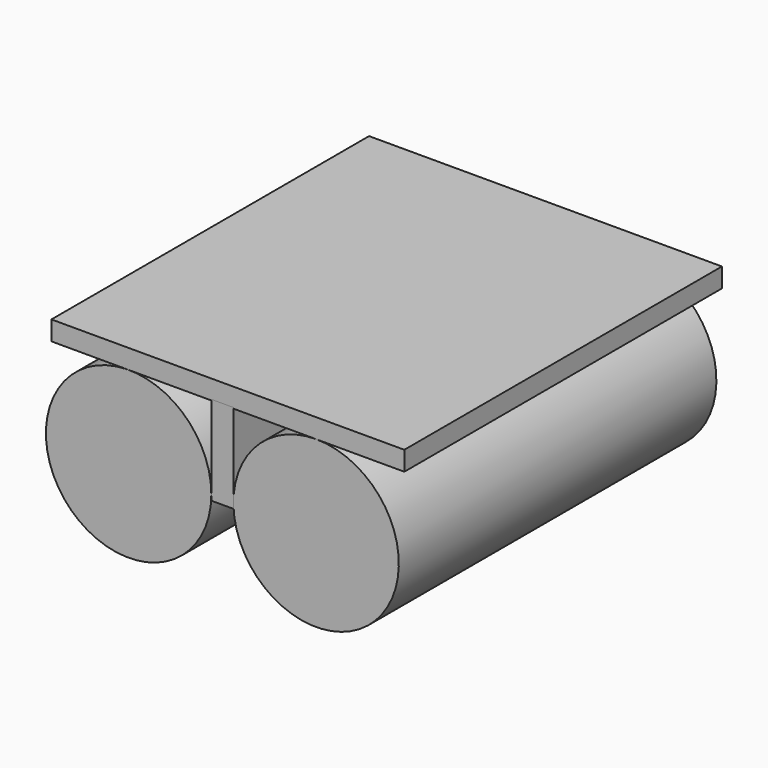
from build123d import *

# Parameters (mm, degrees)
F3_DEPTH = 914.4
F2_R     = 190.5
F1_W     = 50.8
F1_H     = 205.4839522385


with BuildPart() as f3:
    # F0 (on Front) → F3 (new body)
    with BuildSketch(Plane.XZ):
        with BuildLine():
            ThreePointArc((607.9805202276, -192.7839522385), (552.1843620024, -58.0801103812), (417.4805201111, -2.2839522385))
            ThreePointArc((417.4805201111, -2.2839522385), (282.7766784527, -327.4877940957), (607.9805202276, -192.7839522385))
        make_face()
    extrude(amount=F3_DEPTH)


with BuildPart() as f3b:
    # F0 (on Front) → F3, piece 2 (new body)
    with BuildSketch(Plane.XZ):
        Polygon((620.6805202276, 42.2889534779), (-192.1194797724, 42.2889534779), (-192.1194797724, -2.2839522385), (417.4805201111, -2.2839522385), (620.6805202276, -2.2839522385), align=None)
    extrude(amount=F3_DEPTH)


with BuildPart() as f3c:
    # F2 (on Front) → F3, piece 3 (new body)
    with BuildSketch(Plane.XZ):
        with Locations((-14.3194797724, -192.7839522385)):
            Circle(F2_R)
    extrude(amount=F3_DEPTH)


with BuildPart() as f3d:
    # F1 (on Front) → F3, piece 4 (new body)
    with BuildSketch(Plane.XZ):
        with Locations((201.5805202276, -102.7419761192)):
            Rectangle(F1_W, F1_H)
    extrude(amount=F3_DEPTH)


solid = Compound([f3.part, f3b.part, f3c.part, f3d.part])
